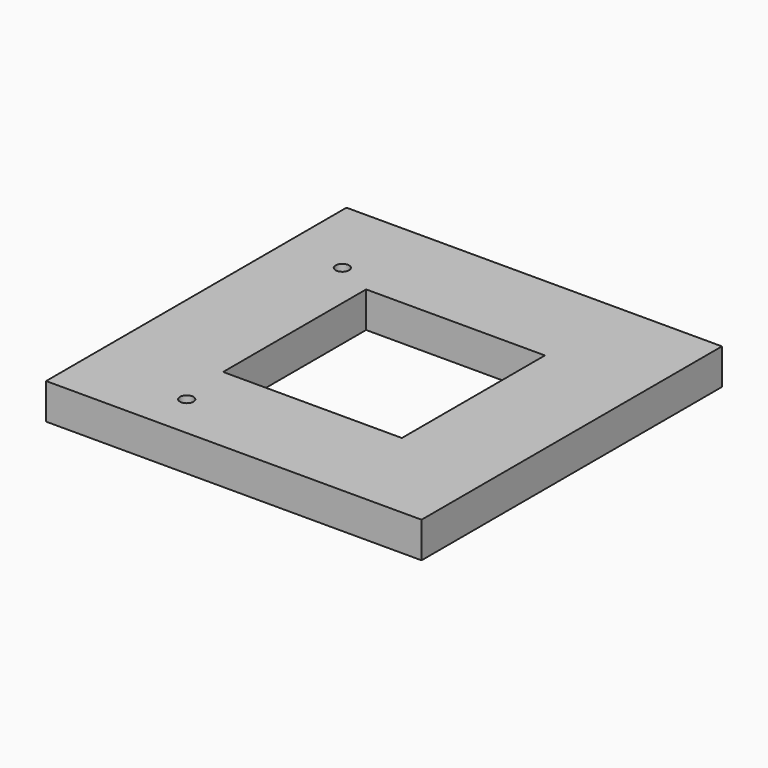
from build123d import *

# Parameters (mm, degrees)
F0_W     = 100
F0_H     = 100
F1_DEPTH = 20
F2_R     = 3.7625
F3_DEPTH = 25


with BuildPart() as f1:
    # F0 (on Top) → F1 (new body)
    with BuildSketch(Plane.XY):
        with BuildLine():
            ThreePointArc((46.9041575982, 105), (81.3172798365, 81.3172798365), (105, 46.9041575982))
            Line((105, 46.9041575982), (105, 105))
            Line((105, 105), (46.9041575982, 105))
        make_face()
        with BuildLine():
            ThreePointArc((-105, 46.9041575982), (-81.3172798365, 81.3172798365), (-46.9041575982, 105))
            Line((-46.9041575982, 105), (-105, 105))
            Line((-105, 105), (-105, 46.9041575982))
        make_face()
        with BuildLine():
            Line((-105, -105), (-46.9041575982, -105))
            ThreePointArc((-46.9041575982, -105), (-81.3172798365, -81.3172798365), (-105, -46.9041575982))
            Line((-105, -46.9041575982), (-105, -105))
        make_face()
        with BuildLine():
            Line((105, -105), (105, -46.9041575982))
            ThreePointArc((105, -46.9041575982), (81.3172798365, -81.3172798365), (46.9041575982, -105))
            Line((46.9041575982, -105), (105, -105))
        make_face()
        with BuildLine():
            Line((105, -46.9041575982), (105, 46.9041575982))
            ThreePointArc((105, 46.9041575982), (81.3172798365, 81.3172798365), (46.9041575982, 105))
            Line((46.9041575982, 105), (-46.9041575982, 105))
            ThreePointArc((-46.9041575982, 105), (-81.3172798365, 81.3172798365), (-105, 46.9041575982))
            Line((-105, 46.9041575982), (-105, -46.9041575982))
            ThreePointArc((-105, -46.9041575982), (-81.3172798365, -81.3172798365), (-46.9041575982, -105))
            Line((-46.9041575982, -105), (46.9041575982, -105))
            ThreePointArc((46.9041575982, -105), (81.3172798365, -81.3172798365), (105, -46.9041575982))
        make_face()
        Rectangle(F0_W, F0_H, mode=Mode.SUBTRACT)
    extrude(amount=F1_DEPTH)

    # F2 (on Top) → F3 (cut)
    with BuildSketch(Plane.XY):
        with Locations((-70.8591109885, 59.457853896)):
            Circle(F2_R)
        with Locations((-46.25, -80.1073498501)):
            Circle(F2_R)
    extrude(amount=F3_DEPTH, mode=Mode.SUBTRACT)


solid = f1.part
